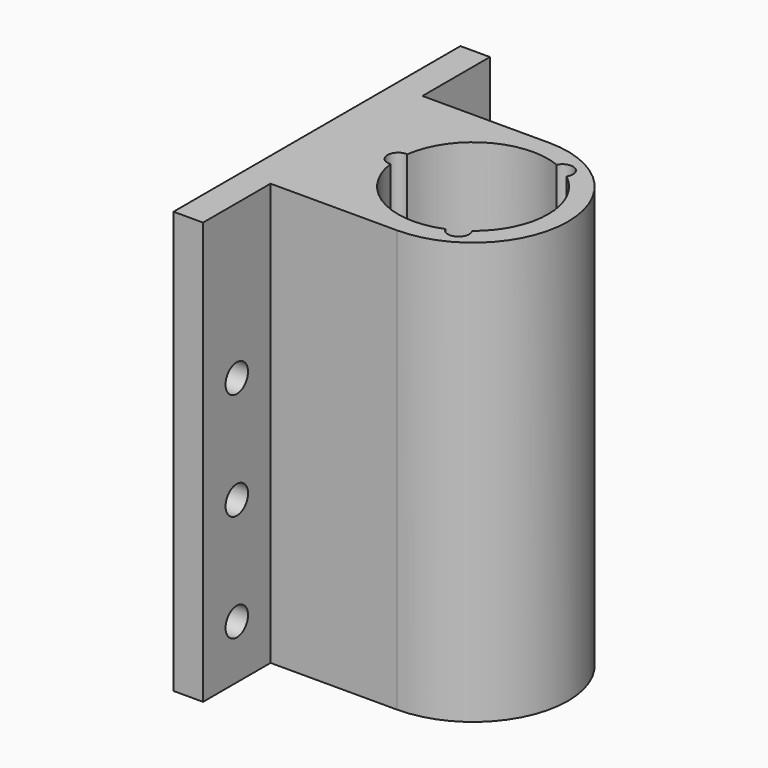
from build123d import *

# Parameters (mm, degrees)
F1_DEPTH = 100
F3_DEPTH = 93
F4_R     = 10.75
F4_R_2   = 1.75
F5_DEPTH = 7.001
F6_R     = 3.325
F7_DEPTH = 7.001


with BuildPart() as f1:
    # F0 (on Top) → F1 (new body)
    with BuildSketch(Plane.XY):
        with BuildLine():
            Line((-30, -22.5), (0, -22.5))
            ThreePointArc((0, -22.5), (22.5, 0), (0, 22.5))
            Line((0, 22.5), (-30, 22.5))
            Line((-30, 22.5), (-30, 42.5))
            Line((-30, 42.5), (-37, 42.5))
            Line((-37, 42.5), (-37, -42.5))
            Line((-37, -42.5), (-30, -42.5))
            Line((-30, -42.5), (-30, -22.5))
        make_face()
    extrude(amount=F1_DEPTH)

    # F2 (on face) → F3 (cut)
    with BuildSketch(Plane.XY.offset(100)):
        with BuildLine():
            ThreePointArc((10.9589791569, -13.9946918808), (15.9804017395, -7.7831475152), (17.775, 0))
            ThreePointArc((17.775, 0), (15.9804017395, 7.7831475152), (10.9589791569, 13.9946918808))
            ThreePointArc((10.9589791569, 13.9946918808), (7.6371976915, 13.2287125761), (6.6395155094, 16.4884037675))
            ThreePointArc((6.6395155094, 16.4884037675), (-8.8876758914, 15.3935), (-17.5991912799, 2.493810597))
            ThreePointArc((-17.5991912799, 2.493810597), (-15.9461312513, 1.7044761952), (-15.275, 0))
            ThreePointArc((-15.275, 0), (-15.9461312513, -1.7044761952), (-17.5991912799, -2.493810597))
            ThreePointArc((-17.5991912799, -2.493810597), (-8.8876758914, -15.3935), (6.6395155094, -16.4884037675))
            ThreePointArc((6.6395155094, -16.4884037675), (7.6371976915, -13.2287125761), (10.9589791569, -13.9946918808))
        make_face()
        with BuildLine():
            ThreePointArc((6.6395155094, 16.4884037675), (7.6371976915, 13.2287125761), (10.9589791569, 13.9946918808))
            ThreePointArc((10.9589791569, 13.9946918808), (8.8871482138, 15.3938046508), (6.6395155094, 16.4884037675))
        make_face()
        with BuildLine():
            ThreePointArc((6.6395155094, 16.4884037675), (8.8871482138, 15.3938046508), (10.9589791569, 13.9946918808))
            ThreePointArc((10.9589791569, 13.9946918808), (11.2777106327, 14.662223267), (11.3871482138, 15.3938046508))
            ThreePointArc((11.3871482138, 15.3938046508), (9.4488056891, 17.8298959628), (6.6395155094, 16.4884037675))
        make_face()
        with BuildLine():
            ThreePointArc((11.3871482138, -15.3938046508), (11.2777106327, -14.662223267), (10.9589791569, -13.9946918808))
            ThreePointArc((10.9589791569, -13.9946918808), (8.8871482138, -15.3938046508), (6.6395155094, -16.4884037675))
            ThreePointArc((6.6395155094, -16.4884037675), (9.4488056891, -17.8298959628), (11.3871482138, -15.3938046508))
        make_face()
        with BuildLine():
            ThreePointArc((6.6395155094, -16.4884037675), (8.8871482138, -15.3938046508), (10.9589791569, -13.9946918808))
            ThreePointArc((10.9589791569, -13.9946918808), (7.6371976915, -13.2287125761), (6.6395155094, -16.4884037675))
        make_face()
        with BuildLine():
            ThreePointArc((-15.275, 0), (-15.9461312513, 1.7044761952), (-17.5991912799, 2.493810597))
            ThreePointArc((-17.5991912799, 2.493810597), (-17.775, 0), (-17.5991912799, -2.493810597))
            ThreePointArc((-17.5991912799, -2.493810597), (-15.9461312513, -1.7044761952), (-15.275, 0))
        make_face()
        with BuildLine():
            ThreePointArc((-17.5991912799, -2.493810597), (-17.775, 0), (-17.5991912799, 2.493810597))
            ThreePointArc((-17.5991912799, 2.493810597), (-20.275, 0), (-17.5991912799, -2.493810597))
        make_face()
    extrude(amount=-F3_DEPTH, mode=Mode.SUBTRACT)

    # F4 (on face) → F5 (cut, through all)
    with BuildSketch(Plane.XY.offset(7)):
        Circle(F4_R)
        with Locations((14, 0)):
            Circle(F4_R_2)
        with Locations((-6.998768, 12.1250668651)):
            Circle(F4_R_2)
        with Locations((-6.998768, -12.1250668651)):
            Circle(F4_R_2)
    extrude(amount=-F5_DEPTH, mode=Mode.SUBTRACT)

    # F6 (on face) → F7 (cut, through all)
    with BuildSketch(Plane.YZ.offset(-30)):
        with Locations((32.5, 12.7)):
            Circle(F6_R)
        with Locations((-32.5, 12.7)):
            Circle(F6_R)
        with Locations((-32.5, 63.5)):
            Circle(F6_R)
        with Locations((32.5, 63.5)):
            Circle(F6_R)
        with Locations((-32.5, 38.1)):
            Circle(F6_R)
        with Locations((32.5, 38.1)):
            Circle(F6_R)
    extrude(amount=-F7_DEPTH, mode=Mode.SUBTRACT)


solid = f1.part
